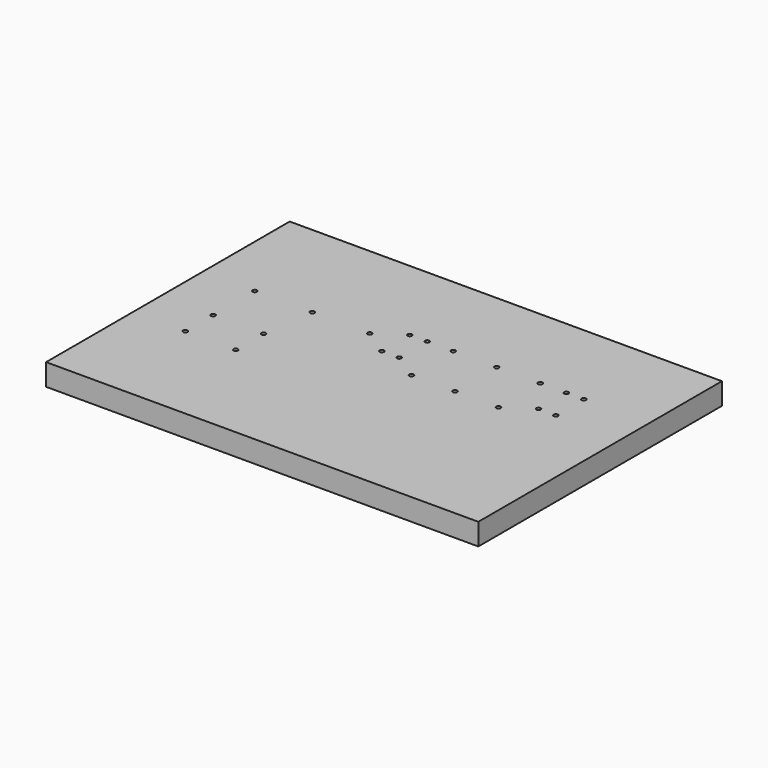
from build123d import *

# Parameters (mm, degrees)
F0_W     = 496.8
F0_H     = 350
F0_R     = 2.5
F1_DEPTH = 25


with BuildPart() as f1:
    # F0 (on Top) → F1 (new body)
    with BuildSketch(Plane.XY):
        with Locations((248.4, 175)):
            Rectangle(F0_W, F0_H)
        with Locations((60, 125)):
            Circle(F0_R, mode=Mode.SUBTRACT)
        with Locations((118, 125)):
            Circle(F0_R, mode=Mode.SUBTRACT)
        with Locations((60, 165)):
            Circle(F0_R, mode=Mode.SUBTRACT)
        with Locations((118, 165)):
            Circle(F0_R, mode=Mode.SUBTRACT)
        with Locations((60, 225)):
            Circle(F0_R, mode=Mode.SUBTRACT)
        with Locations((222, 205)):
            Circle(F0_R, mode=Mode.SUBTRACT)
        with Locations((242, 205)):
            Circle(F0_R, mode=Mode.SUBTRACT)
        with Locations((126, 225)):
            Circle(F0_R, mode=Mode.SUBTRACT)
        with Locations((192, 225)):
            Circle(F0_R, mode=Mode.SUBTRACT)
        with Locations((222, 245)):
            Circle(F0_R, mode=Mode.SUBTRACT)
        with Locations((242, 245)):
            Circle(F0_R, mode=Mode.SUBTRACT)
        with Locations((272, 185)):
            Circle(F0_R, mode=Mode.SUBTRACT)
        with Locations((322, 185)):
            Circle(F0_R, mode=Mode.SUBTRACT)
        with Locations((372, 185)):
            Circle(F0_R, mode=Mode.SUBTRACT)
        with Locations((272, 245)):
            Circle(F0_R, mode=Mode.SUBTRACT)
        with Locations((322, 245)):
            Circle(F0_R, mode=Mode.SUBTRACT)
        with Locations((372, 245)):
            Circle(F0_R, mode=Mode.SUBTRACT)
        with Locations((402, 205)):
            Circle(F0_R, mode=Mode.SUBTRACT)
        with Locations((422, 205)):
            Circle(F0_R, mode=Mode.SUBTRACT)
        with Locations((402, 245)):
            Circle(F0_R, mode=Mode.SUBTRACT)
        with Locations((422, 245)):
            Circle(F0_R, mode=Mode.SUBTRACT)
    extrude(amount=F1_DEPTH)


solid = f1.part
